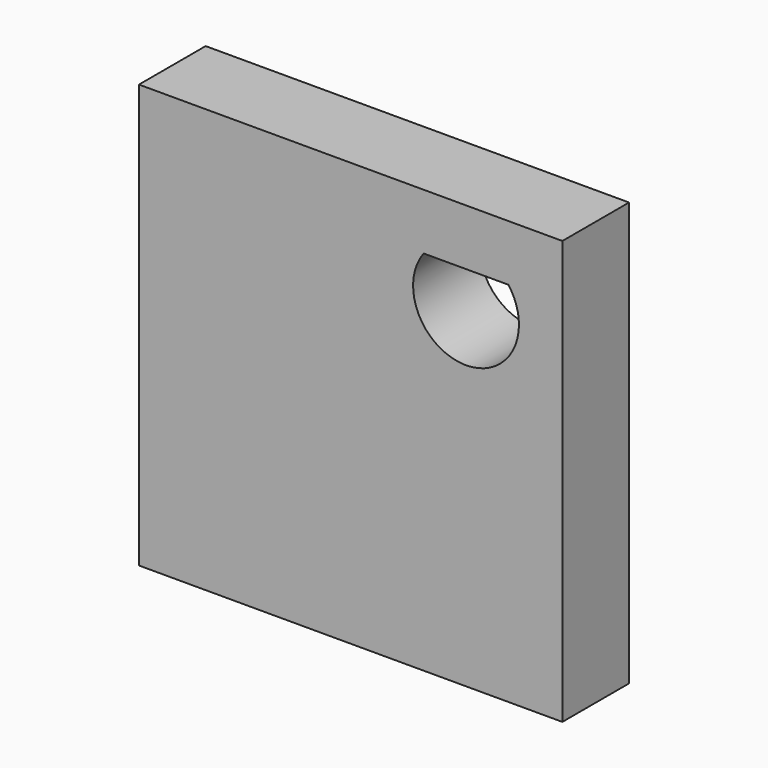
from build123d import *

# Parameters (mm, degrees)
F0_W     = 25.4
F0_H     = 25.4
F1_DEPTH = 5


with BuildPart() as f1:
    # F0 (on Front) → F1 (new body)
    with BuildSketch(Plane.XZ):
        with Locations((46.112889, 54.660929)):
            Rectangle(F0_W, F0_H)
        with BuildLine():
            ThreePointArc((55.573677, 63.996648), (56.045747, 63.095671), (56.208677, 62.091648))
            ThreePointArc((56.208677, 62.091648), (52.029654, 59.079578), (50.493677, 63.996648))
            ThreePointArc((50.493677, 63.996648), (53.033677, 65.266648), (55.573677, 63.996648))
        make_face(mode=Mode.SUBTRACT)
        with BuildLine():
            Line((50.493677, 63.996648), (55.573677, 63.996648))
            ThreePointArc((55.573677, 63.996648), (53.033677, 65.266648), (50.493677, 63.996648))
        make_face()
    extrude(amount=F1_DEPTH)


solid = f1.part
